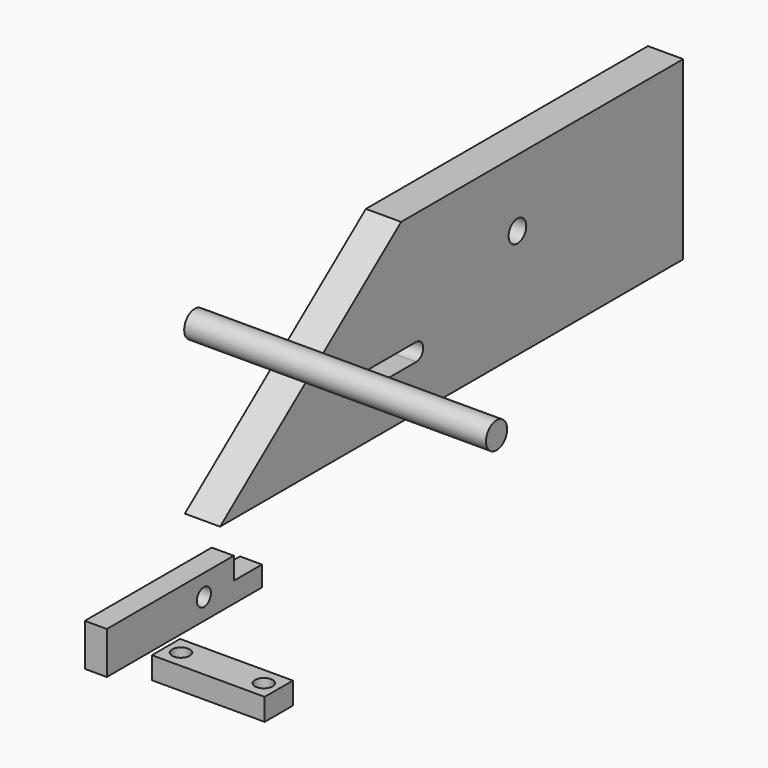
from build123d import *

# Parameters (mm, degrees)
F0_R      = 3.96875
F1_DEPTH  = 12.7
F2_W      = 101.6
F2_H      = 7.9375
F3_DEPTH  = 42.418
F4_R      = 4.7625
F5_DEPTH  = 108.712
F7_DEPTH  = 12.7
F9_W      = 63.5
F9_H      = 15.24
F9_R      = 3.175
F9_W_2    = 6.35
F10_DEPTH = 7.9375
F11_W     = 12.7
F11_H     = 7.9502
F12_DEPTH = 40.64
F13_W     = 12.7
F13_H     = 7.9502
F14_DEPTH = 7.9385
F15_R     = 3.175
F16_DEPTH = 7.9512


with BuildPart() as f1:
    # F0 (on Right) → F1 (new body)
    with BuildSketch(Plane.YZ):
        Polygon((27.151039, 43.981731), (-54.382961, -19.518269), (154.151039, -19.518269), (154.151039, 43.981731), align=None)
        with Locations((79.517603, 19.816257)):
            Circle(F0_R, mode=Mode.SUBTRACT)
    extrude(amount=F1_DEPTH)

    # F6 (on face) → F7 (cut, through all)
    with BuildSketch(Plane.YZ.offset(12.7)):
        with BuildLine():
            Line((33.918817, 3.175), (10.598554, 3.175))
            ThreePointArc((10.598554, 3.175), (7.423554, 0), (10.598554, -3.175))
            Line((10.598554, -3.175), (33.918817, -3.175))
            ThreePointArc((33.918817, -3.175), (37.093817, 0), (33.918817, 3.175))
        make_face()
    extrude(amount=-F7_DEPTH, mode=Mode.SUBTRACT)


with BuildPart() as f3:
    # F2 (on Right) → F3 (new body)
    with BuildSketch(Plane.YZ):
        with Locations((25.378721, -45.944377)):
            Rectangle(F2_W, F2_H)
    extrude(amount=F3_DEPTH)


with BuildPart() as f5:
    # F4 (on Right) → F5 (new body)
    with BuildSketch(Plane.YZ):
        with Locations((-49.899653, 38.871575)):
            Circle(F4_R)
    extrude(amount=F5_DEPTH)


with BuildPart() as f10:
    # F9 (on Right) → F10 (new body)
    with BuildSketch(Plane.YZ):
        with Locations((-67.661913, -42.825252)):
            Rectangle(F9_W, F9_H)
        with Locations((-55.694822, -42.825252)):
            Circle(F9_R, mode=Mode.SUBTRACT)
        with Locations((-32.736913, -42.825252)):
            Rectangle(F9_W_2, F9_H)
    extrude(amount=F10_DEPTH)

    # F13 (on face) → F14 (cut, through all)
    with BuildSketch(Plane.YZ.offset(7.9375)):
        with Locations((-35.911913, -39.180352)):
            Rectangle(F13_W, F13_H)
    extrude(amount=-F14_DEPTH, mode=Mode.SUBTRACT)


with BuildPart() as f12:
    # F11 (on Right) → F12 (new body)
    with BuildSketch(Plane.YZ):
        with Locations((-62.858616, -62.348702)):
            Rectangle(F11_W, F11_H)
    extrude(amount=F12_DEPTH)

    # F15 (on face) → F16 (cut, through all)
    with BuildSketch(Plane.XY.offset(-58.373602)):
        with Locations((35.235196, -62.858616)):
            Circle(F15_R)
        with Locations((5.404804, -62.858616)):
            Circle(F15_R)
    extrude(amount=-F16_DEPTH, mode=Mode.SUBTRACT)


solid = Compound([f1.part, f5.part, f10.part, f12.part])
